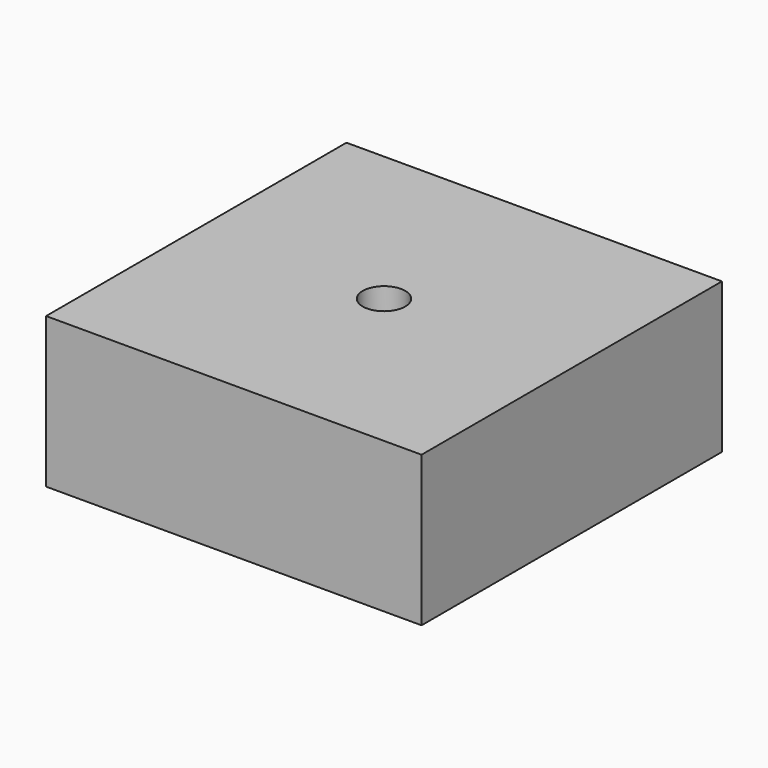
from build123d import *

# Parameters (mm, degrees)
F0_W     = 50
F0_H     = 50
F1_DEPTH = 20
F2_R     = 2.828427
F3_DEPTH = 5
F4_R     = 1.5
F5_DEPTH = 25


with BuildPart() as f1:
    # F0 (on Top) → F1 (new body)
    with BuildSketch(Plane.XY):
        Rectangle(F0_W, F0_H)
    extrude(amount=F1_DEPTH)

    # F2 (on face) → F3 (cut)
    with BuildSketch(Plane.XY.offset(20)):
        Circle(F2_R)
    extrude(amount=-F3_DEPTH, mode=Mode.SUBTRACT)

    # F4 (on face) → F5 (cut)
    with BuildSketch(Plane.XY.offset(15)):
        Circle(F4_R)
    extrude(amount=-F5_DEPTH, mode=Mode.SUBTRACT)


solid = f1.part
